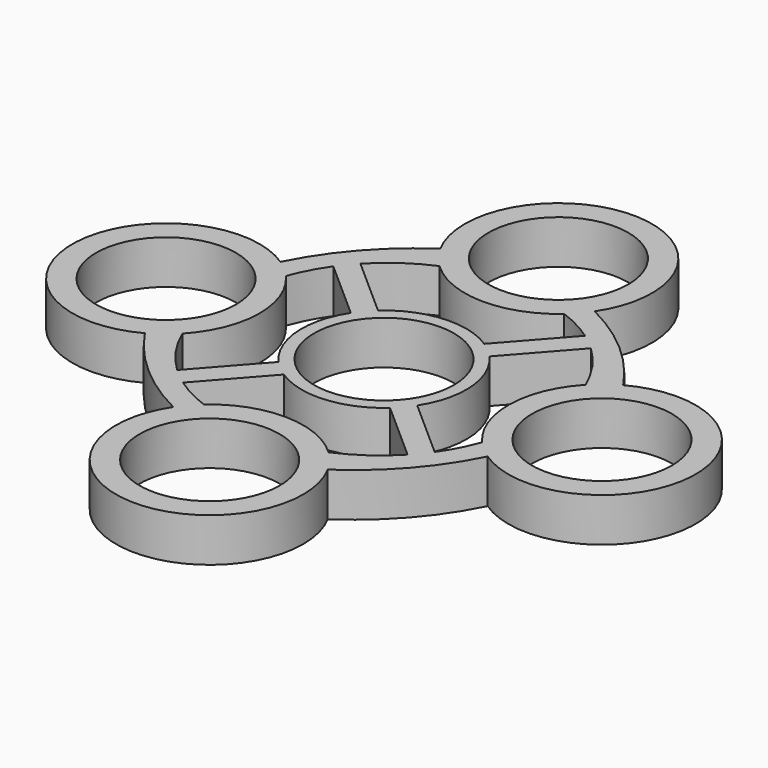
from build123d import *

# Parameters (mm, degrees)
F0_R     = 11.2
F1_DEPTH = 7


with BuildPart() as f1:
    # F0 (on Top) → F1 (new body)
    with BuildSketch(Plane.XY):
        with BuildLine():
            ThreePointArc((-13.18295, 27.738768), (-20.872941, 20.982416), (-26.569568, 12.477552))
            ThreePointArc((-26.569568, 12.477552), (-49.879326, 0.682754), (-27.738768, -13.18295))
            ThreePointArc((-27.738768, -13.18295), (-20.982416, -20.872941), (-12.477552, -26.569568))
            ThreePointArc((-12.477552, -26.569568), (-0.682754, -49.879326), (13.18295, -27.738768))
            ThreePointArc((13.18295, -27.738768), (20.872941, -20.982416), (26.569568, -12.477552))
            ThreePointArc((26.569568, -12.477552), (49.879326, -0.682754), (27.738768, 13.18295))
            ThreePointArc((27.738768, 13.18295), (20.982416, 20.872941), (12.477552, 26.569568))
            ThreePointArc((12.477552, 26.569568), (0.682754, 49.879326), (-13.18295, 27.738768))
        make_face()
        with BuildLine():
            Line((-20.646999, 15.66407), (-11.071281, 7.187957))
            ThreePointArc((-11.071281, 7.187957), (-13.160123, -1.025268), (-9.824467, -8.815886))
            Line((-9.824467, -8.815886), (-18.350719, -18.448246))
            ThreePointArc((-18.350719, -18.448246), (-21.599994, -14.678222), (-24.015539, -10.32667))
            ThreePointArc((-24.015539, -10.32667), (-19.897377, -0.274085), (-23.645482, 9.922259))
            ThreePointArc((-23.645482, 9.922259), (-22.337874, 12.893239), (-20.646999, 15.66407))
        make_face(mode=Mode.SUBTRACT)
        with Locations((0, -34.894872)):
            Circle(F0_R, mode=Mode.SUBTRACT)
        with BuildLine():
            ThreePointArc((10.32667, -24.015539), (0.274085, -19.897377), (-9.922259, -23.645482))
            ThreePointArc((-9.922259, -23.645482), (-12.893239, -22.337874), (-15.66407, -20.646999))
            Line((-15.66407, -20.646999), (-7.187957, -11.071281))
            ThreePointArc((-7.187957, -11.071281), (1.025268, -13.160123), (8.815886, -9.824467))
            Line((8.815886, -9.824467), (18.448246, -18.350719))
            ThreePointArc((18.448246, -18.350719), (14.678222, -21.599994), (10.32667, -24.015539))
        make_face(mode=Mode.SUBTRACT)
        with Locations((-34.894872, 0)):
            Circle(F0_R, mode=Mode.SUBTRACT)
        with BuildLine():
            ThreePointArc((-18.448246, 18.350719), (-14.678222, 21.599994), (-10.32667, 24.015539))
            ThreePointArc((-10.32667, 24.015539), (-0.274085, 19.897377), (9.922259, 23.645482))
            ThreePointArc((9.922259, 23.645482), (12.893239, 22.337874), (15.66407, 20.646999))
            Line((15.66407, 20.646999), (7.187957, 11.071281))
            ThreePointArc((7.187957, 11.071281), (-1.025268, 13.160123), (-8.815886, 9.824467))
            Line((-8.815886, 9.824467), (-18.448246, 18.350719))
        make_face(mode=Mode.SUBTRACT)
        Circle(F0_R, mode=Mode.SUBTRACT)
        with BuildLine():
            ThreePointArc((18.350719, 18.448246), (21.599994, 14.678222), (24.015539, 10.32667))
            ThreePointArc((24.015539, 10.32667), (19.897377, 0.274085), (23.645482, -9.922259))
            ThreePointArc((23.645482, -9.922259), (22.337874, -12.893239), (20.646999, -15.66407))
            Line((20.646999, -15.66407), (11.071281, -7.187957))
            ThreePointArc((11.071281, -7.187957), (13.160123, 1.025268), (9.824467, 8.815886))
            Line((9.824467, 8.815886), (18.350719, 18.448246))
        make_face(mode=Mode.SUBTRACT)
        with Locations((34.894872, 0)):
            Circle(F0_R, mode=Mode.SUBTRACT)
        with Locations((0, 34.894872)):
            Circle(F0_R, mode=Mode.SUBTRACT)
    extrude(amount=F1_DEPTH)


solid = f1.part
